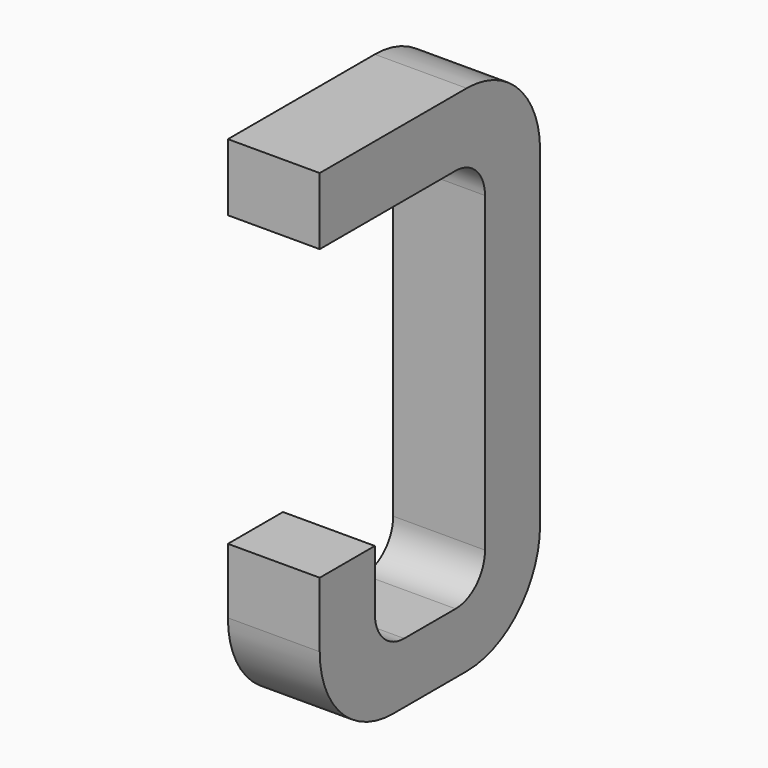
from build123d import *

# Parameters (mm, degrees)
BOX068_W     = 0.5
BOX068_H     = 1.5
BOX068_DEPTH = 2.795
FILLET124_R  = 0.5
FILLET135_R  = 0.5
FILLET146_R  = 0.5
BOX065_W     = 0.75
BOX065_H     = 2.1
BOX065_DEPTH = 1
FILLET149_R  = 0.2
FILLET136_R  = 0.2
FILLET131_R  = 0.2
FILLET148_R  = 0.2
BOX075_W     = 1
BOX075_H     = 1.575
BOX075_DEPTH = 3


with BuildPart() as part:
    # Box068 → Box068 (join)
    with BuildSketch(Plane(origin=(-0.25, 11.125, 0), x_dir=(1, 0, 0), z_dir=(0, 0, 1))):
        with Locations((0.25, 0.75)):
            Rectangle(BOX068_W, BOX068_H)
    extrude(amount=BOX068_DEPTH)

    # Fillet124
    fillet124_edges = [part.edges().sort_by_distance(p)[0] for p in [
        (0, 12.625, 0),
    ]]
    fillet(fillet124_edges, radius=FILLET124_R)

    # Fillet135
    fillet135_edges = [part.edges().sort_by_distance(p)[0] for p in [
        (0, 12.625, 2.795),
    ]]
    fillet(fillet135_edges, radius=FILLET135_R)

    # Fillet146
    fillet146_edges = [part.edges().sort_by_distance(p)[0] for p in [
        (0, 11.125, 0),
    ]]
    fillet(fillet146_edges, radius=FILLET146_R)

    # Box065 → Box065 (cut)
    with BuildSketch(Plane(origin=(-0.5, 11.5, 0.33), x_dir=(0, 1, 0), z_dir=(1, 0, 0))):
        with Locations((0.375, 1.05)):
            Rectangle(BOX065_W, BOX065_H)
    extrude(amount=BOX065_DEPTH, mode=Mode.SUBTRACT)

    # Fillet149
    fillet149_edges = [part.edges().sort_by_distance(p)[0] for p in [
        (0, 11.5, 0.33),
    ]]
    fillet(fillet149_edges, radius=FILLET149_R)

    # Fillet136
    fillet136_edges = [part.edges().sort_by_distance(p)[0] for p in [
        (0, 12.25, 0.33),
    ]]
    fillet(fillet136_edges, radius=FILLET136_R)

    # Fillet131
    fillet131_edges = [part.edges().sort_by_distance(p)[0] for p in [
        (0, 11.5, 2.43),
    ]]
    fillet(fillet131_edges, radius=FILLET131_R)

    # Fillet148
    fillet148_edges = [part.edges().sort_by_distance(p)[0] for p in [
        (0, 12.25, 2.43),
    ]]
    fillet(fillet148_edges, radius=FILLET148_R)

    # Box075 → Box075 (cut)
    with BuildSketch(Plane(origin=(-1, 11, 0.855), x_dir=(0, 1, 0), z_dir=(1, 0, 0))):
        with Locations((0.5, 0.7875)):
            Rectangle(BOX075_W, BOX075_H)
    extrude(amount=BOX075_DEPTH, mode=Mode.SUBTRACT)


with BuildPart() as part_1:
    # Body021 placement: moved
    add(part.part.moved(Location((7.62, 0, 0))))


solid = part_1.part
